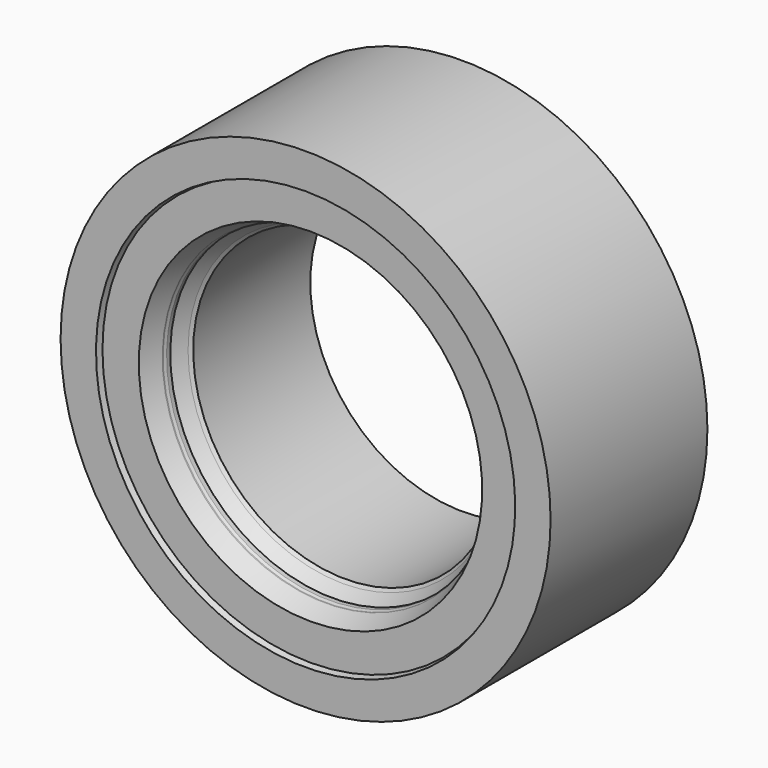
from build123d import *

# Parameters (mm, degrees)
F0_R     = 380.9365
F0_R_2   = 236.5375
F1_DEPTH = 304.8


with BuildPart() as f1:
    # F0 (on Front) → F1 (new body)
    with BuildSketch(Plane.XZ):
        Circle(F0_R)
        Circle(F0_R_2, mode=Mode.SUBTRACT)
    extrude(amount=-F1_DEPTH)

    # F2 (on Right) → F3 (revolve, cut)
    with BuildSketch(Plane.YZ):
        Polygon((-0.674657, 0), (0, 0), (9.525, 0), (9.525, 323.444068), (0, 325.9074), (-38.13795, 325.9074), align=None)
    revolve(axis=Axis((0, -111.905819, 0), (0, -1, 0)), mode=Mode.SUBTRACT)

    # F4 (on Right) → F5 (revolve, cut)
    with BuildSketch(Plane.YZ):
        Polygon((39.294728, 254.3556), (9.525, 266.9921), (-83.954796, 266.9921), (-48.076838, 187.997639), (83.789648, 229.984577), (72.7964, 240.977825), (52.705, 252.5776), (45.438306, 252.5776), (41.2496, 254.3556), align=None)
    revolve(axis=Axis((0, 0, 0), (0, -1, 0)), mode=Mode.SUBTRACT)


solid = f1.part
